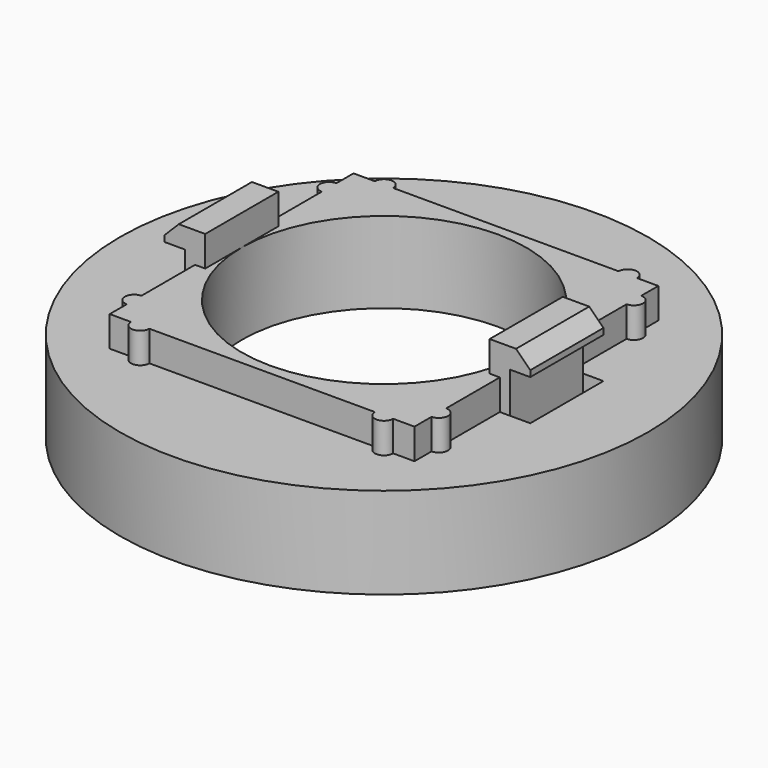
from build123d import *

# Parameters (mm, degrees)
BOX002_W          = 1
BOX002_H          = 4.5
BOX002_DEPTH      = 5.75
ARRAY001_COUNT    = 2
BOX001_W          = 2
BOX001_H          = 4.5
BOX001_DEPTH      = 5.5
ARRAY_COUNT       = 2
CYLINDER003_R     = 0.45
CYLINDER003_DEPTH = 2
CYLINDER004_R     = 0.45
CYLINDER004_DEPTH = 2
CYLINDER005_R     = 0.45
CYLINDER005_DEPTH = 2
CYLINDER006_R     = 0.45
CYLINDER006_DEPTH = 2
CYLINDER007_R     = 0.45
CYLINDER007_DEPTH = 2
CYLINDER008_R     = 0.45
CYLINDER008_DEPTH = 2
CYLINDER009_R     = 0.45
CYLINDER009_DEPTH = 2
CYLINDER010_R     = 0.45
CYLINDER010_DEPTH = 2
CYLINDER002_R     = 7
CYLINDER002_DEPTH = 10
CYLINDER001_R     = 11.5
CYLINDER001_DEPTH = 2
BOX_W             = 15
BOX_H             = 15
BOX_DEPTH         = 2
CYLINDER_R        = 13
CYLINDER_DEPTH    = 4.5
CHAMFER_SIZE      = 0.7


with BuildPart() as array001:
    # Box002 → Box002 (new body)
    with BuildSketch(Plane(origin=(8, -2.25, 0.75), x_dir=(1, 0, 0), z_dir=(0, 0, 1))):
        with Locations((0.5, 2.25)):
            Rectangle(BOX002_W, BOX002_H)
    extrude(amount=BOX002_DEPTH)

    # Array001: Array001 ×2 about axis
    array001_axis = Axis((0, 0, 0), (0, 0, 1))


with BuildPart() as array001_1:
    add(array001.part)
    for i in range(1, ARRAY001_COUNT):
        add(array001.part.rotate(array001_axis, i * 360 / ARRAY001_COUNT))


with BuildPart() as array:
    # Box001 → Box001 (new body)
    with BuildSketch(Plane(origin=(7, -2.25, 2), x_dir=(1, 0, 0), z_dir=(0, 0, 1))):
        with Locations((1, 2.25)):
            Rectangle(BOX001_W, BOX001_H)
    extrude(amount=BOX001_DEPTH)

    # Array: Array ×2 about axis
    array_axis = Axis((0, 0, 0), (0, 0, 1))


with BuildPart() as array_1:
    add(array.part)
    for i in range(1, ARRAY_COUNT):
        add(array.part.rotate(array_axis, i * 360 / ARRAY_COUNT))


with BuildPart() as cilindro003:
    # Cylinder003 → Cylinder003 (new body)
    with BuildSketch(Plane(origin=(6, 7.5, 4), x_dir=(1, 0, 0), z_dir=(0, 0, 1))):
        Circle(CYLINDER003_R)
    extrude(amount=CYLINDER003_DEPTH)


with BuildPart() as cilindro004:
    # Cylinder004 → Cylinder004 (new body)
    with BuildSketch(Plane(origin=(-6, 7.5, 4), x_dir=(1, 0, 0), z_dir=(0, 0, 1))):
        Circle(CYLINDER004_R)
    extrude(amount=CYLINDER004_DEPTH)


with BuildPart() as cilindro005:
    # Cylinder005 → Cylinder005 (new body)
    with BuildSketch(Plane(origin=(6, -7.5, 4), x_dir=(1, 0, 0), z_dir=(0, 0, 1))):
        Circle(CYLINDER005_R)
    extrude(amount=CYLINDER005_DEPTH)


with BuildPart() as cilindro006:
    # Cylinder006 → Cylinder006 (new body)
    with BuildSketch(Plane(origin=(-6, -7.5, 4), x_dir=(1, 0, 0), z_dir=(0, 0, 1))):
        Circle(CYLINDER006_R)
    extrude(amount=CYLINDER006_DEPTH)


with BuildPart() as cilindro007:
    # Cylinder007 → Cylinder007 (new body)
    with BuildSketch(Plane(origin=(7.5, 6, 4), x_dir=(1, 0, 0), z_dir=(0, 0, 1))):
        Circle(CYLINDER007_R)
    extrude(amount=CYLINDER007_DEPTH)


with BuildPart() as cilindro008:
    # Cylinder008 → Cylinder008 (new body)
    with BuildSketch(Plane(origin=(-7.5, 6, 4), x_dir=(1, 0, 0), z_dir=(0, 0, 1))):
        Circle(CYLINDER008_R)
    extrude(amount=CYLINDER008_DEPTH)


with BuildPart() as cilindro009:
    # Cylinder009 → Cylinder009 (new body)
    with BuildSketch(Plane(origin=(7.5, -6, 4), x_dir=(1, 0, 0), z_dir=(0, 0, 1))):
        Circle(CYLINDER009_R)
    extrude(amount=CYLINDER009_DEPTH)


with BuildPart() as cilindro010:
    # Cylinder010 → Cylinder010 (new body)
    with BuildSketch(Plane(origin=(-7.5, -6, 4), x_dir=(1, 0, 0), z_dir=(0, 0, 1))):
        Circle(CYLINDER010_R)
    extrude(amount=CYLINDER010_DEPTH)


with BuildPart() as cilindro002:
    # Cylinder002 → Cylinder002 (new body)
    with BuildSketch(Plane.XY):
        Circle(CYLINDER002_R)
    extrude(amount=CYLINDER002_DEPTH)


with BuildPart() as cilindro001:
    # Cylinder001 → Cylinder001 (new body)
    with BuildSketch(Plane.XY):
        Circle(CYLINDER001_R)
    extrude(amount=CYLINDER001_DEPTH)


with BuildPart() as cubo:
    # Box → Box (new body)
    with BuildSketch(Plane(origin=(-7.5, -7.5, 4), x_dir=(1, 0, 0), z_dir=(0, 0, 1))):
        with Locations((7.5, 7.5)):
            Rectangle(BOX_W, BOX_H)
    extrude(amount=BOX_DEPTH)


with BuildPart() as chamfer_body:
    # Cylinder → Cylinder (new body)
    with BuildSketch(Plane.XY):
        Circle(CYLINDER_R)
    extrude(amount=CYLINDER_DEPTH)

    # Fusion: union Cubo
    add(cubo.part)

    # Cut: cut Cilindro001
    add(cilindro001.part, mode=Mode.SUBTRACT)

    # Cut001: cut Cilindro002
    add(cilindro002.part, mode=Mode.SUBTRACT)

    # Fusion001: union Cilindro003, Cilindro004, Cilindro005, Cilindro006, Cilindro007, Cilindro008, Cilindro009, Cilindro010
    add(cilindro003.part)
    add(cilindro004.part)
    add(cilindro005.part)
    add(cilindro006.part)
    add(cilindro007.part)
    add(cilindro008.part)
    add(cilindro009.part)
    add(cilindro010.part)

    # Fusion002: union Array
    add(array_1.part)

    # Cut002: cut Array001
    add(array001_1.part, mode=Mode.SUBTRACT)

    # Chamfer
    chamfer_edges = [chamfer_body.edges().sort_by_distance(p)[0] for p in [
        (9, 0, 7.5),
        (-9, 0, 7.5),
    ]]
    chamfer(chamfer_edges, length=CHAMFER_SIZE)


solid = chamfer_body.part
